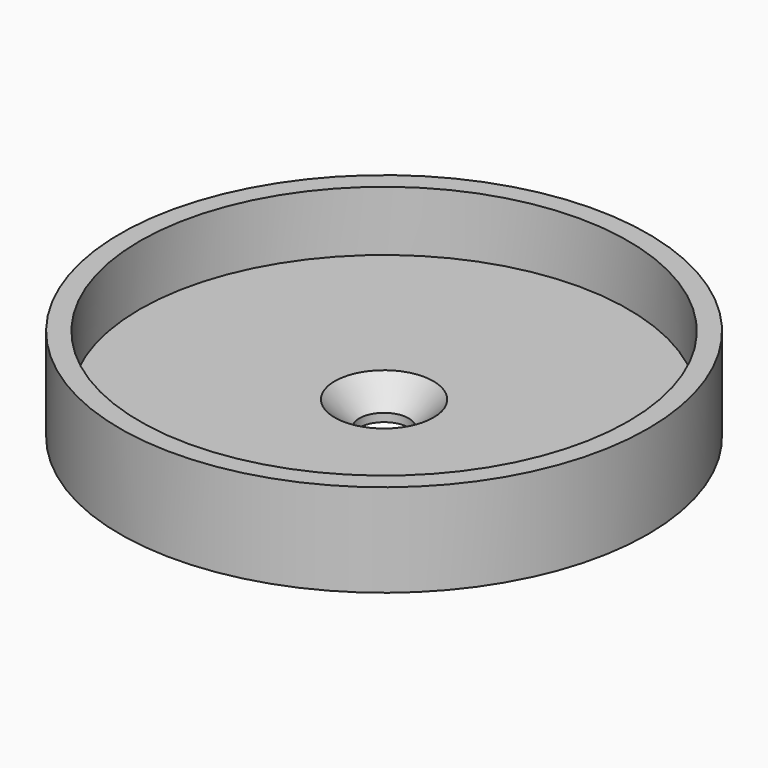
from build123d import *

# Parameters (mm, degrees)
F0_R     = 16.05
F0_R_2   = 14.85
F0_R_3   = 1.5
F1_DEPTH = 2
F2_DEPTH = 3.65
F3_SIZE  = 1.5


with BuildPart() as f1:
    # F0 (on Top) → F1 (new body)
    with BuildSketch(Plane.XY):
        Circle(F0_R)
        Circle(F0_R_2, mode=Mode.SUBTRACT)
        Circle(F0_R_2)
        Circle(F0_R_3, mode=Mode.SUBTRACT)
    extrude(amount=-F1_DEPTH)

    # F0 (on Top) → F2 (join)
    with BuildSketch(Plane.XY):
        Circle(F0_R)
        Circle(F0_R_2, mode=Mode.SUBTRACT)
    extrude(amount=F2_DEPTH)

    # F3
    f3_edges = [f1.edges().sort_by_distance(p)[0] for p in [
        (-1.5, 0, 0),
    ]]
    chamfer(f3_edges, length=F3_SIZE)


solid = f1.part
